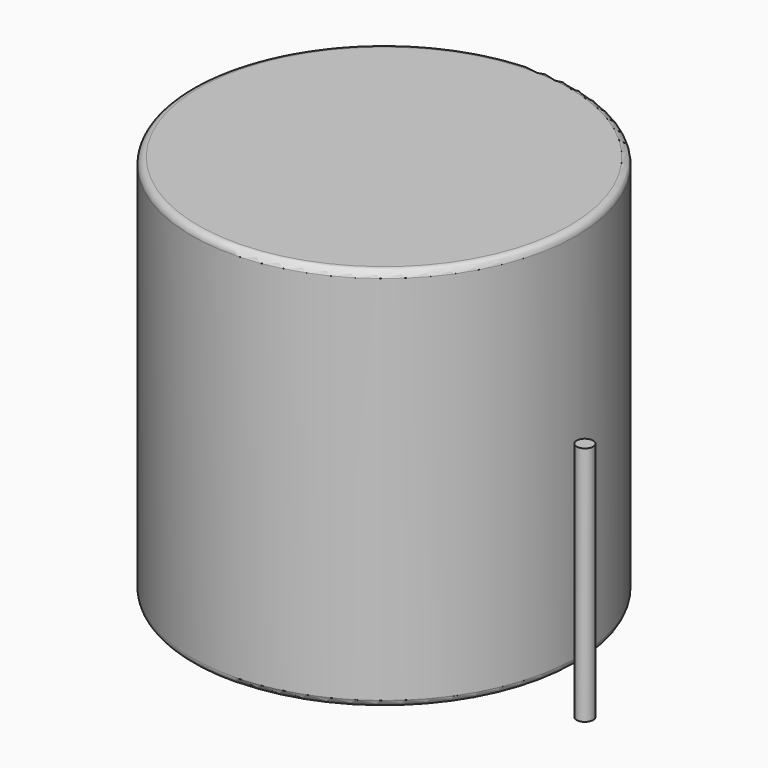
from build123d import *

# Parameters (mm, degrees)
SKETCH001_R       = 0.6
PAD001_DEPTH      = 14
PAD001_DEPTH_BACK = 3.5
SKETCH_R          = 14
PAD_DEPTH         = 28
FILLET_R          = 0.5


with BuildPart() as pad001:
    # Sketch001 → Pad001 (new body, two sides)
    with BuildSketch(Plane.XY.offset(0.5)) as pad001_sk:
        Circle(SKETCH001_R)
        with Locations((29.2, 0)):
            Circle(SKETCH001_R)
    extrude(amount=PAD001_DEPTH)
    extrude(pad001_sk.sketch, amount=-PAD001_DEPTH_BACK)


with BuildPart() as fillet_body:
    # Sketch → Pad (new body)
    with BuildSketch(Plane.XY.offset(0.1)):
        with Locations((14.6, 0)):
            Circle(SKETCH_R)
    extrude(amount=PAD_DEPTH)

    # Fillet
    fillet_edges = [fillet_body.edges().sort_by_distance(p)[0] for p in [
        (0.6, 0, 0.1),
        (0.6, 0, 28.1),
    ]]
    fillet(fillet_edges, radius=FILLET_R)


solid = Compound([pad001.part, fillet_body.part])
